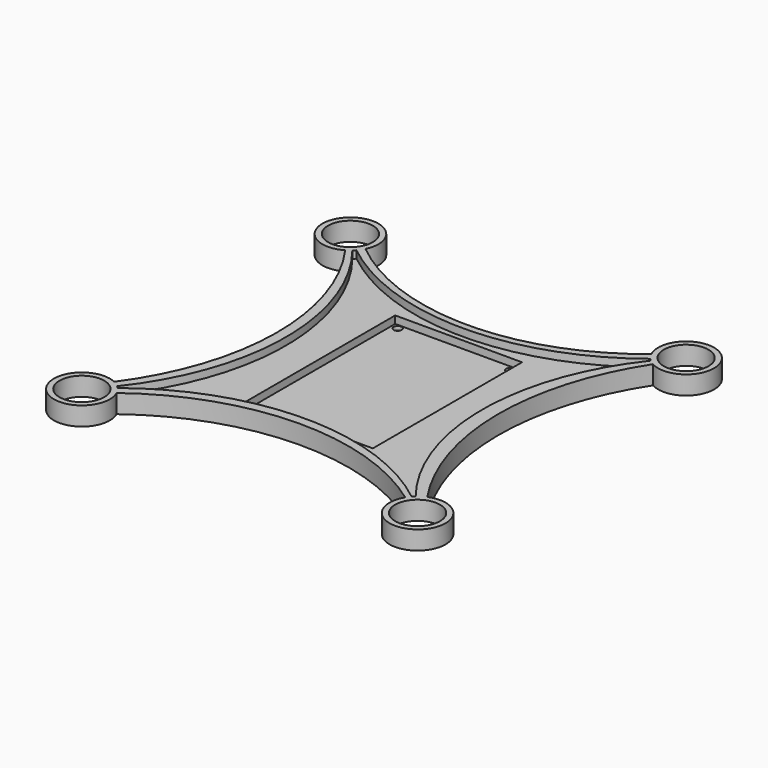
from build123d import *

# Parameters (mm, degrees)
F0_R     = 6
F1_DEPTH = 5
F2_DEPTH = 3
F3_W     = 34
F3_H     = 50
F4_DEPTH = 2
F5_R     = 1.155008
F5_R_2   = 1.094696
F5_R_3   = 1.161259
F5_R_4   = 0.979267
F6_DEPTH = 3.001


with BuildPart() as f1:
    # F0 (on Top) → F1 (new body)
    with BuildSketch(Plane.XY):
        with BuildLine():
            ThreePointArc((83.212636, 86.809125), (44.989895, 73.04652), (6.710183, 86.64986))
            ThreePointArc((6.710183, 86.64986), (-5.47746, 95.123225), (3.790625, 83.528434))
            ThreePointArc((3.790625, 83.528434), (15.91287, 45.057288), (3.24039, 6.763865))
            ThreePointArc((3.24039, 6.763865), (-5.358143, -5.247885), (6.829769, 3.099073))
            ThreePointArc((6.829769, 3.099073), (45.077454, 16.173317), (83.585051, 3.88567))
            ThreePointArc((83.585051, 3.88567), (94.910037, -5.66935), (87.070277, 6.904109))
            ThreePointArc((87.070277, 6.904109), (75.1752, 45.066281), (86.359609, 83.442748))
            ThreePointArc((86.359609, 83.442748), (95.478836, 95.121753), (83.212636, 86.809125))
        make_face()
        Circle(F0_R, mode=Mode.SUBTRACT)
        with Locations((90, 0)):
            Circle(F0_R, mode=Mode.SUBTRACT)
        with BuildLine():
            ThreePointArc((85.006812, 84.403744), (71.302344, 45), (85.006812, 5.596256))
            ThreePointArc((85.006812, 5.596256), (84.696699, 5.303301), (84.403744, 4.993188))
            ThreePointArc((84.403744, 4.993188), (45, 18.697656), (5.596256, 4.993188))
            ThreePointArc((5.596256, 4.993188), (5.303301, 5.303301), (4.993188, 5.596256))
            ThreePointArc((4.993188, 5.596256), (18.697656, 45), (4.993188, 84.403744))
            ThreePointArc((4.993188, 84.403744), (5.303301, 84.696699), (5.596256, 85.006812))
            ThreePointArc((5.596256, 85.006812), (45, 71.302344), (84.403744, 85.006812))
            ThreePointArc((84.403744, 85.006812), (84.696699, 84.696699), (85.006812, 84.403744))
        make_face(mode=Mode.SUBTRACT)
        with Locations((0, 90)):
            Circle(F0_R, mode=Mode.SUBTRACT)
        with Locations((90, 90)):
            Circle(F0_R, mode=Mode.SUBTRACT)
    extrude(amount=F1_DEPTH)

    # F0 (on Top) → F2 (join)
    with BuildSketch(Plane.XY):
        with BuildLine():
            ThreePointArc((84.403744, 4.993188), (84.696699, 5.303301), (85.006812, 5.596256))
            ThreePointArc((85.006812, 5.596256), (71.302344, 45), (85.006812, 84.403744))
            ThreePointArc((85.006812, 84.403744), (84.696699, 84.696699), (84.403744, 85.006812))
            ThreePointArc((84.403744, 85.006812), (45, 71.302344), (5.596256, 85.006812))
            ThreePointArc((5.596256, 85.006812), (5.303301, 84.696699), (4.993188, 84.403744))
            ThreePointArc((4.993188, 84.403744), (18.697656, 45), (4.993188, 5.596256))
            ThreePointArc((4.993188, 5.596256), (5.303301, 5.303301), (5.596256, 4.993188))
            ThreePointArc((5.596256, 4.993188), (45, 18.697656), (84.403744, 4.993188))
        make_face()
    extrude(amount=F2_DEPTH)

    # F3 (on face) → F4 (cut)
    with BuildSketch(Plane.XY.offset(3)):
        with Locations((45, 45)):
            Rectangle(F3_W, F3_H)
    extrude(amount=-F4_DEPTH, mode=Mode.SUBTRACT)

    # F5 (on face) → F6 (cut, through all)
    with BuildSketch(Plane.XY.offset(3)):
        with Locations((59.727397, 21.745855)):
            Circle(F5_R)
        with Locations((29.705523, 68.703085)):
            Circle(F5_R_2)
        with Locations((29.668592, 21.745855)):
            Circle(F5_R_3)
        with Locations((59.817981, 68.572104)):
            Circle(F5_R_4)
    extrude(amount=-F6_DEPTH, mode=Mode.SUBTRACT)


solid = f1.part
